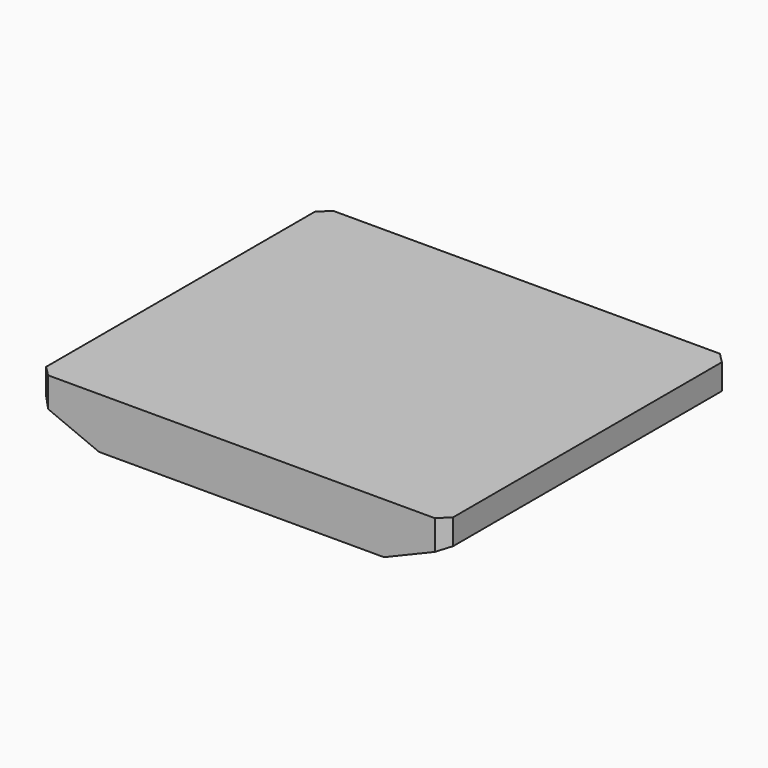
from build123d import *

# Parameters (mm, degrees)
SKETCH_W     = 400
SKETCH_H     = 350
PAD_DEPTH    = 50
POCKET_DEPTH = 350.001
CHAMFER_SIZE = 10


with BuildPart() as part:
    # Sketch → Pad (new body)
    with BuildSketch(Plane.XY):
        with Locations((200, 175)):
            Rectangle(SKETCH_W, SKETCH_H)
    extrude(amount=PAD_DEPTH)

    # Sketch001 (on Face1 of Pad) → Pocket (cut, through all)
    with BuildSketch(Plane.XZ):
        Polygon((0, 25), (60, 0), (0, 0), align=None)
        Polygon((400, 25), (340, 0), (400, 0), align=None)
    extrude(amount=-POCKET_DEPTH, mode=Mode.SUBTRACT)

    # Chamfer
    chamfer_edges = [part.edges().sort_by_distance(p)[0] for p in [
        (400, 0, 37.5),
        (0, 0, 37.5),
        (400, 350, 37.5),
        (0, 350, 37.5),
    ]]
    chamfer(chamfer_edges, length=CHAMFER_SIZE)


solid = part.part
